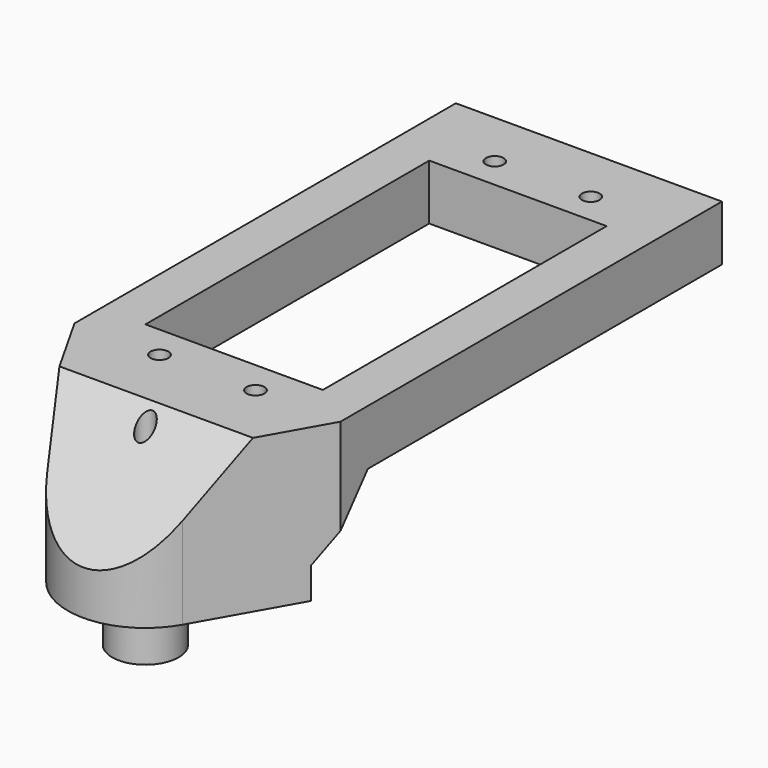
from build123d import *

# Parameters (mm, degrees)
F0_R           = 1.016
F1_DEPTH       = 17.526
F3_START       = -25.4
F3_DEPTH       = 40.641
F4_R           = 3.81
F5_DEPTH       = 6.35
F7_D           = 2.032
F7_CSINK_D     = 3.175
F7_CSINK_ANGLE = 82


with BuildPart() as f1:
    # F0 (on Top) → F1 (new body)
    with BuildSketch(Plane.XY):
        with BuildLine():
            Line((15.24, 40.64), (0, 40.64))
            Line((0, 40.64), (-15.24, 40.64))
            Line((-15.24, 40.64), (-15.24, -13.97))
            Line((-15.24, -13.97), (-7.7384455959, -27.2359067358))
            ThreePointArc((-7.7384455959, -27.2359067358), (-2.2624454306, -14.2627073637), (8.89, -22.86))
            ThreePointArc((8.89, -22.86), (8.5972926363, -25.1224454306), (7.7384455959, -27.2359067358))
            Line((7.7384455959, -27.2359067358), (15.24, -13.97))
            Line((15.24, -13.97), (15.24, 40.64))
        make_face()
        with Locations((-5.4991, -13.97)):
            Circle(F0_R, mode=Mode.SUBTRACT)
        with Locations((5.4991, -13.97)):
            Circle(F0_R, mode=Mode.SUBTRACT)
        with Locations((-5.4991, 34.036)):
            Circle(F0_R, mode=Mode.SUBTRACT)
        Polygon((10.16, -10.16), (0, -10.16), (-10.16, -10.16), (-10.16, 30.48), (0, 30.48), (10.16, 30.48), align=None, mode=Mode.SUBTRACT)
        with Locations((5.4991, 34.036)):
            Circle(F0_R, mode=Mode.SUBTRACT)
        with BuildLine():
            ThreePointArc((8.89, -22.86), (-2.2624454306, -14.2627073637), (-7.7384455959, -27.2359067358))
            ThreePointArc((-7.7384455959, -27.2359067358), (0, -31.75), (7.7384455959, -27.2359067358))
            ThreePointArc((7.7384455959, -27.2359067358), (8.5972926363, -25.1224454306), (8.89, -22.86))
        make_face()
    extrude(amount=F1_DEPTH)

    # F2 (on Right) → F3 (intersect)
    with BuildSketch(Plane.YZ.offset(F3_START)):
        Polygon((-31.7592067564, 5.08), (-31.7592067564, 0), (-16.4593220198, 0), (-16.4593220198, 3.556), (-10.0653828302, 11.176), (41.7786614893, 11.176), (41.7786614893, 17.526), (-21.3157727468, 17.526), align=None)
    extrude(amount=F3_DEPTH, mode=Mode.INTERSECT)

    # F4 (on Top) → F5 (join)
    with BuildSketch(Plane.XY):
        with Locations((0, -22.86)):
            Circle(F4_R)
    extrude(amount=-F5_DEPTH)

    # F7 (through all)
    with Locations(Plane(origin=(0, 0, -6.35), x_dir=(1, 0, 0), z_dir=(0, 0, -1))):
        with Locations((0, 22.86)):
            CounterSinkHole(F7_D / 2, F7_CSINK_D / 2, counter_sink_angle=F7_CSINK_ANGLE)


solid = f1.part
